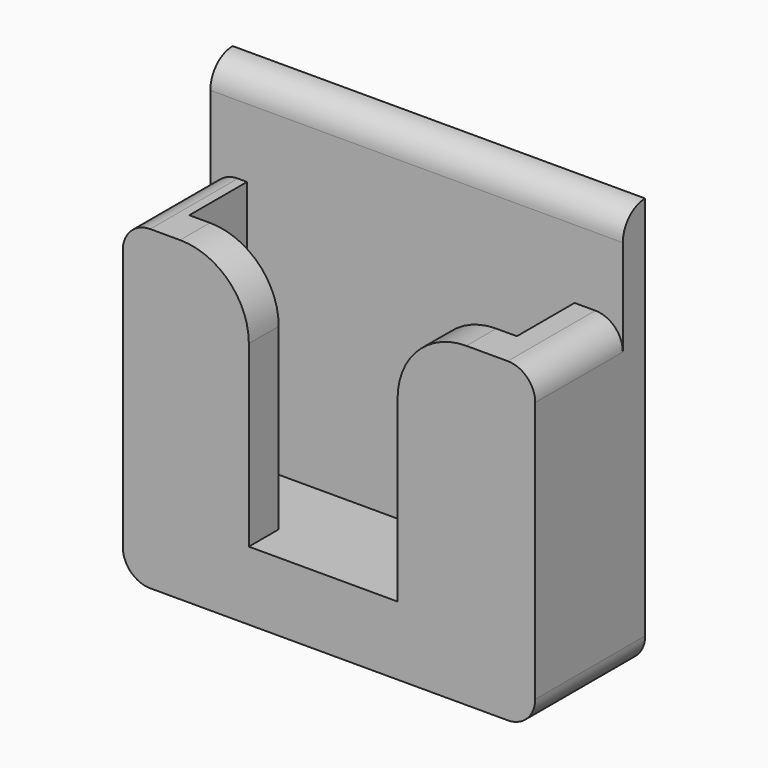
from build123d import *

# Parameters (mm, degrees)
F0_W     = 30
F0_H     = 10
F1_DEPTH = 5
F3_DEPTH = 25
F4_DEPTH = 18
F5_R     = 5
F6_R     = 2


with BuildPart() as f1:
    # F0 (on Top) → F1 (new body)
    with BuildSketch(Plane.XY):
        with Locations((0.6170257553, -0.1298129745)):
            Rectangle(F0_W, F0_H)
    extrude(amount=F1_DEPTH)

    # F2 (on face) → F3 (join)
    with BuildSketch(Plane.XY.offset(5)):
        Polygon((15.6170257553, 4.8701870255), (-14.3829742447, 4.8701870255), (-14.3829742447, 2.8308965266), (-11.7144621909, 2.8308965266), (12.1078416705, 2.8308965266), (15.6170257553, 2.8308965266), align=None)
    extrude(amount=F3_DEPTH)

    # F2 (on face) → F4 (join)
    with BuildSketch(Plane.XY.offset(5)):
        Polygon((-11.7144621909, 2.8308965266), (-14.3829742447, 2.8308965266), (-14.3829742447, -5.1298129745), (-5.2125030197, -5.1298129745), (-5.2125030197, -2.4143811315), (-11.7144621909, -2.4143811315), align=None)
        Polygon((15.6170257553, -5.1298129745), (15.6170257553, 2.8308965266), (12.1078416705, 2.8308965266), (12.1078416705, -2.4143811315), (5.6058824994, -2.4143811315), (5.6058824994, -5.1298129745), align=None)
    extrude(amount=F4_DEPTH)

    # F5
    f5_edges = [f1.edges().sort_by_distance(p)[0] for p in [
        (-5.212503, -3.772097, 23),
        (5.605882, -3.772097, 23),
    ]]
    fillet(f5_edges, radius=F5_R)

    # F6
    f6_edges = [f1.edges().sort_by_distance(p)[0] for p in [
        (0.617026, 2.830897, 30),
        (15.617026, -0.129813, 0),
        (15.617026, -1.149458, 23),
        (-14.382974, -1.149458, 23),
        (-14.382974, -0.129813, 0),
    ]]
    fillet(f6_edges, radius=F6_R)


solid = f1.part
